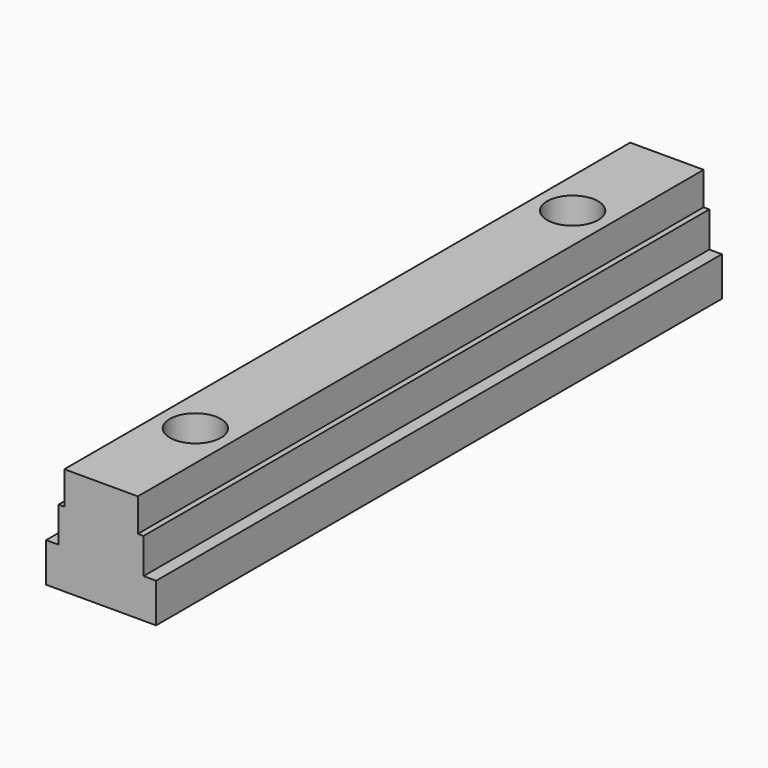
from build123d import *

# Parameters (mm, degrees)
PAD_DEPTH       = 45
SKETCH001_R     = 3.25
POCKET_DEPTH    = 13.701
POCKET001_DEPTH = 5.5


with BuildPart() as part:
    # Sketch → Pad (new body, symmetric)
    with BuildSketch(Plane.XZ):
        Polygon((-4.675, 13.7), (4.675, 13.7), (4.675, 9.5), (5.4, 9.5), (5.4, 5), (7, 5), (7, 0), (-7, 0), (-7, 5), (-5.4, 5), (-5.4, 9.5), (-4.675, 9.5), align=None)
    extrude(amount=PAD_DEPTH, both=True)

    # Sketch001 → Pocket (cut, through all)
    with BuildSketch(Plane.XY):
        with Locations((0, -30)):
            Circle(SKETCH001_R)
        with Locations((0, 30)):
            Circle(SKETCH001_R)
    extrude(amount=POCKET_DEPTH, mode=Mode.SUBTRACT)

    # Sketch002 → Pocket001 (cut)
    with BuildSketch(Plane.XY):
        Polygon((5, 27.113249), (5, 32.886751), (0, 35.773503), (-5, 32.886751), (-5, 27.113249), (0, 24.226497), align=None)
        Polygon((0, -35.773503), (5, -32.886751), (5, -27.113249), (0, -24.226497), (-5, -27.113249), (-5, -32.886751), align=None)
    extrude(amount=POCKET001_DEPTH, mode=Mode.SUBTRACT)


solid = part.part
